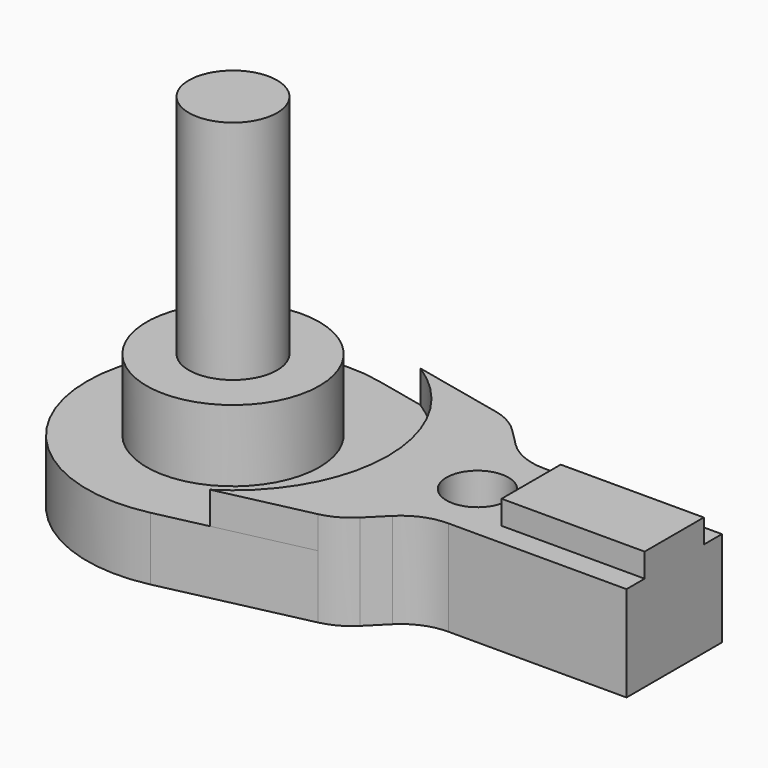
from build123d import *

# Parameters (mm, degrees)
F0_R     = 2.6
F1_DEPTH = 5.3
F2_R     = 7.25
F3_DEPTH = 6
F2_R_2   = 2.6
F4_DEPTH = 2.7
F5_W     = 12
F5_H     = 6.2
F6_DEPTH = 2
F7_R     = 3.7
F8_DEPTH = 19


with BuildPart() as f1:
    # F0 (on Top) → F1 (new body)
    with BuildSketch(Plane.XY):
        with BuildLine():
            Line((-16.354793, -5.071878), (-16.354793, -0.071878))
            Line((-16.354793, -0.071878), (-16.354793, 4.928122))
            Line((-16.354793, 4.928122), (-31.283726, 4.928122))
            ThreePointArc((-31.283726, 4.928122), (-33.197143, 5.308724), (-34.819259, 6.392588))
            Line((-34.819259, 6.392588), (-36.324322, 7.89765))
            ThreePointArc((-36.324322, 7.89765), (-37.454863, 8.745723), (-38.77755, 9.243572))
            Line((-38.77755, 9.243572), (-50.703144, 11.887689))
            ThreePointArc((-50.703144, 11.887689), (-65.604793, -0.071878), (-50.703144, -12.031446))
            Line((-50.703144, -12.031446), (-38.77755, -9.387329))
            ThreePointArc((-38.77755, -9.387329), (-37.454863, -8.88948), (-36.324322, -8.041406))
            Line((-36.324322, -8.041406), (-34.819259, -6.536344))
            ThreePointArc((-34.819259, -6.536344), (-33.197143, -5.45248), (-31.283726, -5.071878))
            Line((-31.283726, -5.071878), (-16.354793, -5.071878))
        make_face()
        with Locations((-32.854793, -0.071878)):
            Circle(F0_R, mode=Mode.SUBTRACT)
    extrude(amount=F1_DEPTH)

    # F2 (on face) → F3 (join)
    with BuildSketch(Plane.XY.offset(5.3)):
        with Locations((-53.354793, -0.071878)):
            Circle(F2_R)
    extrude(amount=F3_DEPTH)

    # F2 (on face) → F4 (join)
    with BuildSketch(Plane.XY.offset(5.3)):
        with BuildLine():
            ThreePointArc((-46.454594, 10.94571), (-40.354793, -0.071878), (-46.454594, -11.089466))
            Line((-46.454594, -11.089466), (-38.77755, -9.387329))
            ThreePointArc((-38.77755, -9.387329), (-37.454863, -8.88948), (-36.324322, -8.041406))
            Line((-36.324322, -8.041406), (-34.819259, -6.536344))
            ThreePointArc((-34.819259, -6.536344), (-33.197143, -5.45248), (-31.283726, -5.071878))
            Line((-31.283726, -5.071878), (-16.354793, -5.071878))
            Line((-16.354793, -5.071878), (-16.354793, -0.071878))
            Line((-16.354793, -0.071878), (-16.354793, 4.928122))
            Line((-16.354793, 4.928122), (-31.283726, 4.928122))
            ThreePointArc((-31.283726, 4.928122), (-33.197143, 5.308724), (-34.819259, 6.392588))
            Line((-34.819259, 6.392588), (-36.324322, 7.89765))
            ThreePointArc((-36.324322, 7.89765), (-37.454863, 8.745723), (-38.77755, 9.243572))
            Line((-38.77755, 9.243572), (-46.454594, 10.94571))
        make_face()
        with Locations((-32.854793, -0.071878)):
            Circle(F2_R_2, mode=Mode.SUBTRACT)
    extrude(amount=F4_DEPTH)

    # F5 (on face) → F6 (join)
    with BuildSketch(Plane.XY.offset(8)):
        with Locations((-22.354793, -0.071878)):
            Rectangle(F5_W, F5_H)
    extrude(amount=F6_DEPTH)

    # F7 (on face) → F8 (join)
    with BuildSketch(Plane.XY.offset(11.3)):
        with Locations((-53.354793, -0.071878)):
            Circle(F7_R)
    extrude(amount=F8_DEPTH)


solid = f1.part
